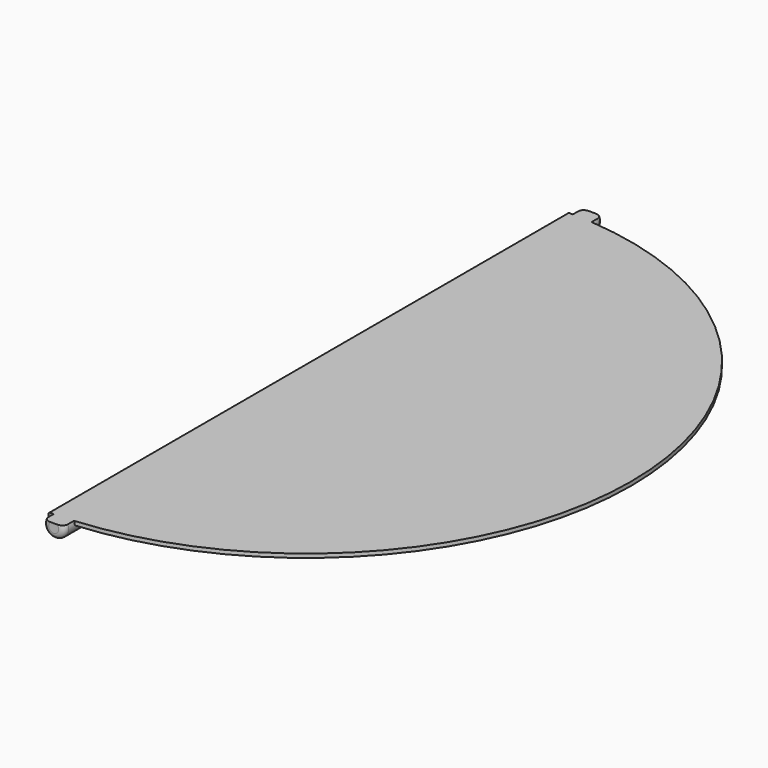
from build123d import *

# Parameters (mm, degrees)
PAD_DEPTH    = 0.7
PAD001_DEPTH = 61
FILLET_R     = 1
FILLET001_R  = 0.3


with BuildPart() as part:
    # Sketch004 (on DatumPlane) → Pad (new body)
    with BuildSketch(Plane(origin=(0, 0, 38.1), x_dir=(0, 1, 0), z_dir=(0, 0, 1))):
        with BuildLine():
            ThreePointArc((-58.799235, -0.3), (0, -58.8), (58.799235, -0.3))
            Line((58.799235, -0.3), (-58.799235, -0.3))
        make_face()
    extrude(amount=PAD_DEPTH)

    # Sketch005 (on DatumPlane) → Pad001 (join, symmetric)
    with BuildSketch(Plane(origin=(0, 0, 0), x_dir=(-1, 0, 0), z_dir=(0, 1, 0))):
        with BuildLine():
            ThreePointArc((-4.766352, 38.8), (-3, 36.2), (-1.233648, 38.8))
            Line((-4.766352, 38.8), (-1.233648, 38.8))
        make_face()
    extrude(amount=PAD001_DEPTH, both=True)

    # Fillet
    fillet_edges = [part.edges().sort_by_distance(p)[0] for p in [
        (3, -61, 36.2),
        (3, 61, 36.2),
    ]]
    fillet(fillet_edges, radius=FILLET_R)

    # Fillet001
    fillet001_edges = [part.edges().sort_by_distance(p)[0] for p in [
        (0.3, 0, 38.8),
    ]]
    fillet(fillet001_edges, radius=FILLET001_R)


solid = part.part
